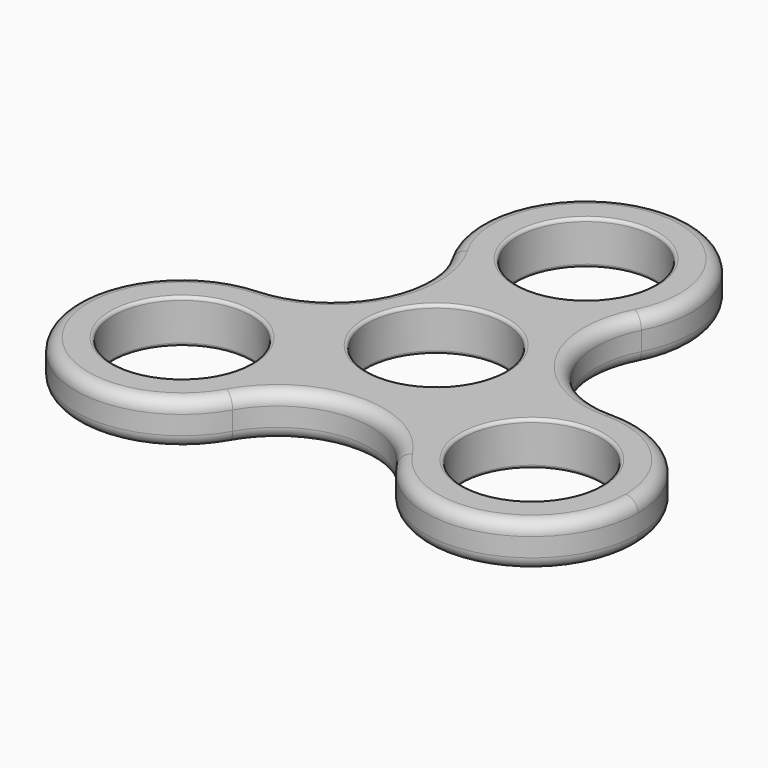
from build123d import *

# Parameters (mm, degrees)
F0_R     = 11
F1_DEPTH = 3.5
F2_R     = 2
F3_R     = 0.5


with BuildPart() as f1:
    # F0 (on Top) → F1 (new body, symmetric)
    with BuildSketch(Plane.XY):
        with BuildLine():
            ThreePointArc((15.0979553525, 22.1864384451), (16.5176457311, 25.9791319963), (17, 30))
            ThreePointArc((17, 30), (-4.466553036, 46.4027407459), (-14.6529298796, 21.3807398263))
            ThreePointArc((-14.6529298796, 21.3807398263), (0.4602167793, 13.0062305383), (15.0979553525, 22.1864384451))
        make_face()
        with Locations((0, 30)):
            Circle(F0_R, mode=Mode.SUBTRACT)
        with BuildLine():
            ThreePointArc((15.0979553525, 22.1864384451), (0.4602167793, 13.0062305383), (-14.6529298796, 21.3807398263))
            ThreePointArc((-14.6529298796, 21.3807398263), (-14.3933287886, 6.6299291065), (-26.8917784126, -1.2086017899))
            ThreePointArc((-26.8917784126, -1.2086017899), (-14.3685468349, -5.896328636), (-9.1095435369, -18.1905954479))
            ThreePointArc((-9.1095435369, -18.1905954479), (-9.6710768413, -22.5238174244), (-11.3185803248, -26.5707748767))
            ThreePointArc((-11.3185803248, -26.5707748767), (1.3261959394, -18.9705483771), (14.3637876361, -25.8752578112))
            ThreePointArc((14.3637876361, -25.8752578112), (13.7323636634, -8.6085003994), (28.5414747805, 0.2926138944))
            ThreePointArc((28.5414747805, 0.2926138944), (15.6370974252, 7.4431981146), (15.0979553525, 22.1864384451))
        make_face()
        Circle(F0_R, mode=Mode.SUBTRACT)
        with BuildLine():
            ThreePointArc((-9.1095435369, -18.1905954479), (-14.3685468349, -5.896328636), (-26.8917784126, -1.2086017899))
            ThreePointArc((-26.8917784126, -1.2086017899), (-40.5964712071, -27.0860396009), (-11.3185803248, -26.5707748767))
            ThreePointArc((-11.3185803248, -26.5707748767), (-9.6710768413, -22.5238174244), (-9.1095435369, -18.1905954479))
        make_face()
        with Locations((-26.1095435369, -18.1905954479)):
            Circle(F0_R, mode=Mode.SUBTRACT)
        with BuildLine():
            ThreePointArc((45.6795081129, -16.7068257081), (40.6514217726, -4.6373069387), (28.5414747805, 0.2926138944))
            ThreePointArc((28.5414747805, 0.2926138944), (13.7323636634, -8.6085003994), (14.3637876361, -25.8752578112))
            ThreePointArc((14.3637876361, -25.8752578112), (33.456157142, -33.0219605238), (45.6795081129, -16.7068257081))
        make_face()
        with Locations((28.6795081129, -16.7068257081)):
            Circle(F0_R, mode=Mode.SUBTRACT)
    extrude(amount=F1_DEPTH, both=True)

    # F2
    f2_edges = [f1.edges().sort_by_distance(p)[0] for p in [
        (-0.460217, 46.993769, 3.5),
        (15.637097, 7.443198, 3.5),
        (43.626653, -24.805151, 3.5),
        (-0.460217, 46.993769, -3.5),
    ]]
    fillet(f2_edges, radius=F2_R)

    # F3
    f3_edges = [f1.edges().sort_by_distance(p)[0] for p in [
        (-11, 0, 3.5),
        (17.679508, -16.706826, 3.5),
        (-37.109544, -18.190595, 3.5),
        (-0.406074, 44.994502, -3.5),
        (13.932753, 6.396675, -3.5),
        (-12.634841, 5.677185, -3.5),
        (41.868165, -23.852407, -3.5),
        (-38.892127, -26.039517, -3.5),
        (1.272053, -16.971281, -3.5),
        (-11, 30, -3.5),
        (-11, 0, -3.5),
        (-37.109544, -18.190595, -3.5),
        (17.679508, -16.706826, -3.5),
        (-11, 30, 3.5),
    ]]
    fillet(f3_edges, radius=F3_R)


solid = f1.part
